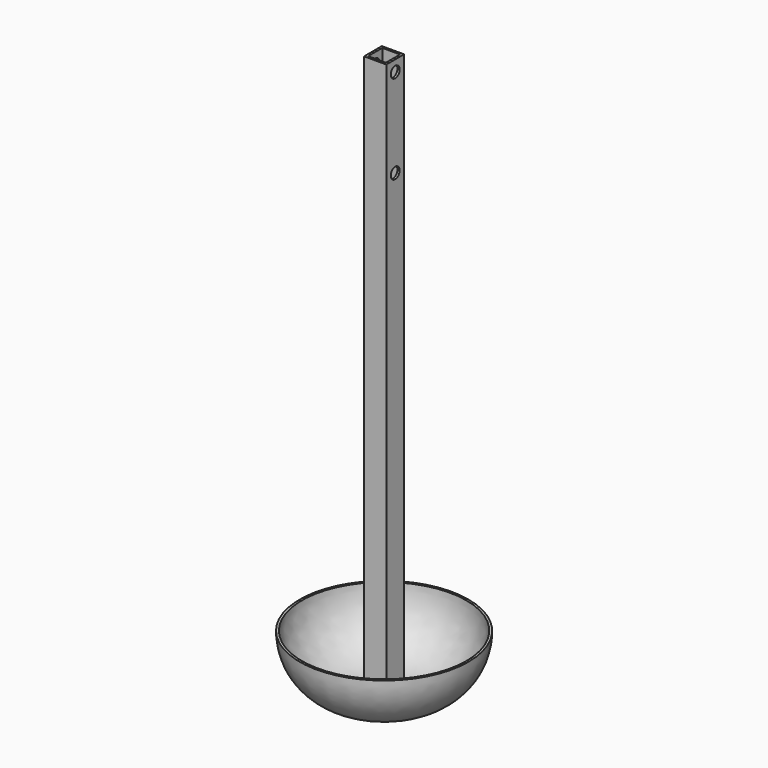
from build123d import *

# Parameters (mm, degrees)
SKETCH001_W   = 10
SKETCH001_H   = 10
SKETCH001_W_2 = 8
SKETCH001_H_2 = 8
PAD_DEPTH     = 254
SKETCH002_R   = 2.5
POCKET_DEPTH  = 43.001


with BuildPart() as part:
    # Sketch → Revolution (revolve)
    with BuildSketch(Plane.XZ):
        with BuildLine():
            Line((0, 0), (11, 0))
            ThreePointArc((11, 0), (30.091883, 7.908117), (38, 27))
            Line((38, 27), (37, 27))
            ThreePointArc((10.999947, 1), (29.384758, 8.615205), (37, 27))
            Line((10.999947, 1), (0, 1))
            Line((0, 0), (0, 1))
        make_face()
    revolve(axis=Axis((0, 0, 0), (0, 0, 1)))

    # Sketch001 (on Face5 of Revolution) → Pad (new body)
    with BuildSketch(Plane(origin=(0, 0, 1), x_dir=(-1, 0, 0), z_dir=(0, 0, 1))):
        Rectangle(SKETCH001_W, SKETCH001_H)
        Rectangle(SKETCH001_W_2, SKETCH001_H_2, mode=Mode.SUBTRACT)
    extrude(amount=PAD_DEPTH)

    # Sketch002 (on Face9 of Pad) → Pocket (cut, through all)
    with BuildSketch(Plane(origin=(5, 0, 0), x_dir=(0, 0, 1), z_dir=(1, 0, 0))):
        with Locations((250, 0)):
            Circle(SKETCH002_R)
        with Locations((210, 0)):
            Circle(SKETCH002_R)
    extrude(amount=-POCKET_DEPTH, mode=Mode.SUBTRACT)


solid = part.part
